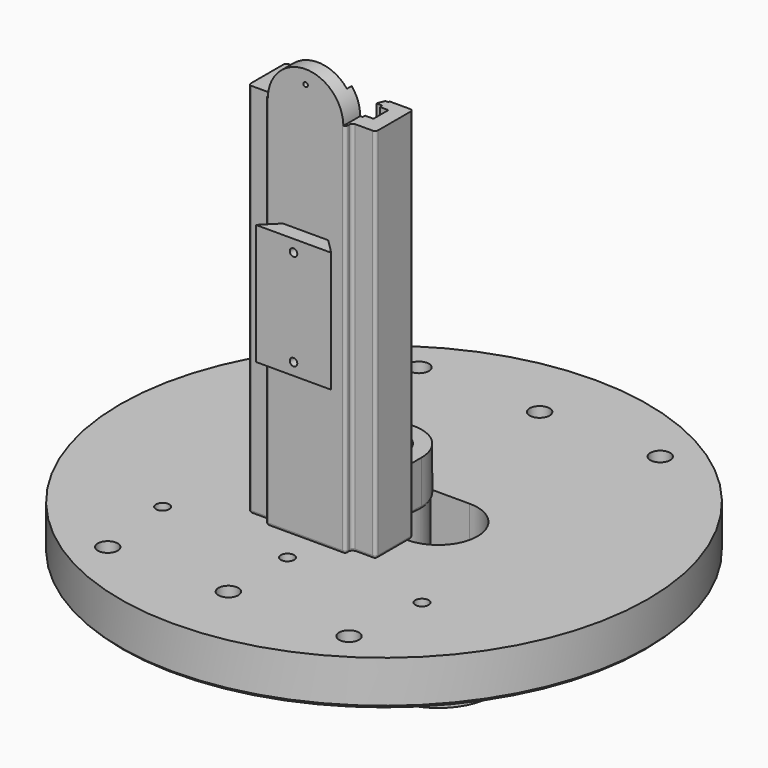
from build123d import *

# Parameters (mm, degrees)
F1_DEPTH        = 27.5
F3_DEPTH        = 10
F4_R            = 3.75
F5_DEPTH        = 7.5
F6_R            = 6
F6_R_2          = 3.75
F7_DEPTH        = 15
F8_R            = 0.5
F9_SIZE         = 0.5
F11_DEPTH       = 6.25
F13_DEPTH       = 22.5010061838
F15_D           = 0.75
F17_D           = 1.25
F19_R           = 43.75
F20_DEPTH       = 7.5
F21_R           = 20
F22_DEPTH       = 10
F24_DEPTH       = 2
F26_DEPTH       = 5
F28_D           = 3.3
F28_CSINK_D     = 6.72
F28_CSINK_ANGLE = 90
F30_D           = 2.2
F30_CSINK_D     = 3.5
F30_CSINK_ANGLE = 90
F32_DEPTH       = 15.001
F33_SIZE        = 0.5


with BuildPart() as f1:
    # F0 (on Top) → F1 (new body, symmetric)
    with BuildSketch(Plane.XY):
        with BuildLine():
            Line((-4.85, -1.4677083809), (-6.65, -1.4677083809))
            Line((-6.65, -1.4677083809), (-6.65, -0.9677083809))
            Line((-6.65, -0.9677083809), (-8.05, -0.9677083809))
            Line((-8.05, -0.9677083809), (-8.05, 0.5822916191))
            Line((-8.05, 0.5822916191), (-8.05, 2.1322916191))
            Line((-8.05, 2.1322916191), (-6.65, 2.1322916191))
            Line((-6.65, 2.1322916191), (-6.65, 2.6322916191))
            Line((-6.65, 2.6322916191), (-5.65, 2.6322916191))
            Line((-5.65, 2.6322916191), (-6.15, 3.8822916191))
            Line((-6.15, 3.8822916191), (-6.65, 3.8822916191))
            Line((-6.65, 3.8822916191), (-6.65, 4.1322916191))
            Line((-6.65, 4.1322916191), (-10.05, 4.1322916191))
            ThreePointArc((-10.05, 4.1322916191), (-10.4035533906, 3.9858450097), (-10.55, 3.6322916191))
            Line((-10.55, 3.6322916191), (-10.55, -3.1356890146))
            ThreePointArc((-10.55, -3.1356890146), (-10.4035533906, -3.4892424052), (-10.05, -3.6356890146))
            Line((-10.05, -3.6356890146), (-7.15, -3.6356890146))
            ThreePointArc((-7.15, -3.6356890146), (-6.7964466094, -3.782135624), (-6.65, -4.1356890146))
            Line((-6.65, -4.1356890146), (-6.65, -4.4677083809))
            ThreePointArc((-6.65, -4.4677083809), (-6.5035533906, -4.8212617715), (-6.15, -4.9677083809))
            Line((-6.15, -4.9677083809), (6.15, -4.9677083809))
            ThreePointArc((6.15, -4.9677083809), (6.5035533906, -4.8212617715), (6.65, -4.4677083809))
            Line((6.65, -4.4677083809), (6.65, -4.1356890146))
            ThreePointArc((6.65, -4.1356890146), (6.7964466094, -3.782135624), (7.15, -3.6356890146))
            Line((7.15, -3.6356890146), (10.05, -3.6356890146))
            ThreePointArc((10.05, -3.6356890146), (10.4035533906, -3.4892424052), (10.55, -3.1356890146))
            Line((10.55, -3.1356890146), (10.55, 3.6322916191))
            ThreePointArc((10.55, 3.6322916191), (10.4035533906, 3.9858450097), (10.05, 4.1322916191))
            Line((10.05, 4.1322916191), (6.65, 4.1322916191))
            Line((6.65, 4.1322916191), (6.65, 3.8822916191))
            Line((6.65, 3.8822916191), (6.15, 3.8822916191))
            Line((6.15, 3.8822916191), (5.65, 2.6322916191))
            Line((5.65, 2.6322916191), (6.65, 2.6322916191))
            Line((6.65, 2.6322916191), (6.65, 2.1322916191))
            Line((6.65, 2.1322916191), (8.05, 2.1322916191))
            Line((8.05, 2.1322916191), (8.05, -0.9677083809))
            Line((8.05, -0.9677083809), (6.65, -0.9677083809))
            Line((6.65, -0.9677083809), (6.65, -1.4677083809))
            Line((6.65, -1.4677083809), (4.85, -1.4677083809))
            Line((4.85, -1.4677083809), (4.85, -2.4677083809))
            Line((4.85, -2.4677083809), (0, -2.4677083809))
            Line((0, -2.4677083809), (-4.85, -2.4677083809))
            Line((-4.85, -2.4677083809), (-4.85, -1.4677083809))
        make_face()
    extrude(amount=F1_DEPTH, both=True)

    # F2 (on Top) → F3 (join, symmetric)
    with BuildSketch(Plane.XY):
        Polygon((3.75, -4.9677083809), (-3.75, -4.9677083809), (-6.25, -7.4677083809), (6.25, -7.4677083809), align=None)
    extrude(amount=F3_DEPTH, both=True)

    # F4 (on face) → F5 (join)
    with BuildSketch(Plane(origin=(0, 0, -27.5), x_dir=(1, 0, 0), z_dir=(0, 0, -1))):
        with BuildLine():
            Line((6.15, 4.9677083809), (-6.15, 4.9677083809))
            ThreePointArc((-6.15, 4.9677083809), (-6.5035533906, 4.8212617715), (-6.65, 4.4677083809))
            Line((-6.65, 4.4677083809), (-6.65, 4.1356890146))
            ThreePointArc((-6.65, 4.1356890146), (-6.7964466094, 3.782135624), (-7.15, 3.6356890146))
            Line((-7.15, 3.6356890146), (-10.05, 3.6356890146))
            ThreePointArc((-10.05, 3.6356890146), (-10.4035533906, 3.4892424052), (-10.55, 3.1356890146))
            Line((-10.55, 3.1356890146), (-10.55, -3.6322916191))
            ThreePointArc((-10.55, -3.6322916191), (-10.4035533906, -3.9858450097), (-10.05, -4.1322916191))
            Line((-10.05, -4.1322916191), (-9.75, -4.1322916191))
            ThreePointArc((-9.75, -4.1322916191), (-7.2751262658, -5.1574178849), (-6.25, -7.6322916191))
            Line((-6.25, -7.6322916191), (-6.25, -11.2822916191))
            ThreePointArc((-6.25, -11.2822916191), (0, -5.0322916191), (6.25, -11.2822916191))
            Line((6.25, -11.2822916191), (6.25, -7.6322916191))
            ThreePointArc((6.25, -7.6322916191), (7.2751262658, -5.1574178849), (9.75, -4.1322916191))
            Line((9.75, -4.1322916191), (10.05, -4.1322916191))
            ThreePointArc((10.05, -4.1322916191), (10.4035533906, -3.9858450097), (10.55, -3.6322916191))
            Line((10.55, -3.6322916191), (10.55, 3.1356890146))
            ThreePointArc((10.55, 3.1356890146), (10.4035533906, 3.4892424052), (10.05, 3.6356890146))
            Line((10.05, 3.6356890146), (7.15, 3.6356890146))
            ThreePointArc((7.15, 3.6356890146), (6.7964466094, 3.782135624), (6.65, 4.1356890146))
            Line((6.65, 4.1356890146), (6.65, 4.4677083809))
            ThreePointArc((6.65, 4.4677083809), (6.5035533906, 4.8212617715), (6.15, 4.9677083809))
        make_face()
        with BuildLine():
            ThreePointArc((6.25, -11.2822916191), (0, -5.0322916191), (-6.25, -11.2822916191))
            ThreePointArc((-6.25, -11.2822916191), (0, -17.5322916191), (6.25, -11.2822916191))
        make_face()
        with Locations((0, -11.2822916191)):
            Circle(F4_R, mode=Mode.SUBTRACT)
    extrude(amount=F5_DEPTH)

    # F6 (on face) → F7 (join)
    with BuildSketch(Plane(origin=(0, 0, -35), x_dir=(1, 0, 0), z_dir=(0, 0, -1))):
        with Locations((0, -11.2822916191)):
            Circle(F6_R)
        with Locations((0, -11.2822916191)):
            Circle(F6_R_2, mode=Mode.SUBTRACT)
    extrude(amount=F7_DEPTH)

    # F8
    f8_edges = [f1.edges().sort_by_distance(p)[0] for p in [
        (10.55, 0.248301, -35),
    ]]
    fillet(f8_edges, radius=F8_R)

    # F9
    f9_edges = [f1.edges().sort_by_distance(p)[0] for p in [
        (-6, 11.282292, -50),
    ]]
    chamfer(f9_edges, length=F9_SIZE)

    # F10 (on face) → F11 (join)
    with BuildSketch(Plane.XY.offset(27.5)):
        with BuildLine():
            ThreePointArc((6.15, -4.9677083809), (6.200254481, -4.9651764574), (6.25, -4.9576063295))
            Line((6.25, -4.9576063295), (6.25, -1.4677083809))
            Line((6.25, -1.4677083809), (4.85, -1.4677083809))
            Line((4.85, -1.4677083809), (4.85, -2.4677083809))
            Line((4.85, -2.4677083809), (-4.85, -2.4677083809))
            Line((-4.85, -2.4677083809), (-4.85, -1.4677083809))
            Line((-4.85, -1.4677083809), (-6.25, -1.4677083809))
            Line((-6.25, -1.4677083809), (-6.25, -4.9576063295))
            ThreePointArc((-6.25, -4.9576063295), (-6.200254481, -4.9651764574), (-6.15, -4.9677083809))
            Line((-6.15, -4.9677083809), (6.15, -4.9677083809))
        make_face()
    extrude(amount=F11_DEPTH)

    # F12 (on face) → F13 (cut, through all)
    with BuildSketch(Plane.XZ.offset(4.9677083809)):
        with BuildLine():
            ThreePointArc((-6.25, 27.5), (0, 33.75), (6.25, 27.5))
            Line((6.25, 27.5), (7.15, 27.5))
            Line((7.15, 27.5), (7.15, 34.6532762051))
            Line((7.15, 34.6532762051), (-7.1755368263, 34.6532762051))
            Line((-7.1755368263, 34.6532762051), (-7.1755368263, 27.5))
            Line((-7.1755368263, 27.5), (-6.25, 27.5))
        make_face()
    extrude(amount=-F13_DEPTH, mode=Mode.SUBTRACT)

    # F15 (through all)
    with Locations(Plane.XZ.offset(4.9677083809)):
        with Locations((0, 31.5)):
            Hole(F15_D / 2)

    # F17 (through all)
    with Locations(Plane.XZ.offset(7.4677083809)):
        with Locations((0, 8), (0, -8)):
            Hole(F17_D / 2)


with BuildPart() as f20:
    # F19 (on offset) → F20 (new body)
    with BuildSketch(Plane.XY.offset(-36)):
        with Locations((0, 11.2822916191)):
            Circle(F19_R)
        with BuildLine():
            Line((-9, 17.7822916191), (-3.1e-09, 17.7822916191))
            Line((-3.1e-09, 17.7822916191), (9, 17.7822916191))
            ThreePointArc((9, 17.7822916191), (15.5, 11.2822916191), (9, 4.7822916191))
            Line((9, 4.7822916191), (-2.15e-08, 4.7822916191))
            Line((-2.15e-08, 4.7822916191), (-9, 4.7822916191))
            ThreePointArc((-9, 4.7822916191), (-15.5, 11.2822916191), (-9, 17.7822916191))
        make_face(mode=Mode.SUBTRACT)
    extrude(amount=-F20_DEPTH)

    # F21 (on face) → F22 (join)
    with BuildSketch(Plane(origin=(0, 0, -43.5), x_dir=(1, 0, 0), z_dir=(0, 0, -1))):
        with Locations((0, -11.2822916191)):
            Circle(F21_R)
        with BuildLine():
            Line((-9, -4.7822916191), (9, -4.7822916191))
            ThreePointArc((9, -4.7822916191), (15.5, -11.2822916191), (9, -17.7822916191))
            Line((9, -17.7822916191), (-9, -17.7822916191))
            ThreePointArc((-9, -17.7822916191), (-15.5, -11.2822916191), (-9, -4.7822916191))
        make_face(mode=Mode.SUBTRACT)
    extrude(amount=F22_DEPTH)

    # F23 (on face) → F24 (join)
    with BuildSketch(Plane(origin=(0, 0, -53.5), x_dir=(1, 0, 0), z_dir=(0, 0, -1))):
        with BuildLine():
            ThreePointArc((9, -17.7822916191), (15.5, -11.2822916191), (9, -4.7822916191))
            Line((9, -4.7822916191), (-9, -4.7822916191))
            ThreePointArc((-9, -4.7822916191), (-15.5, -11.2822916191), (-9, -17.7822916191))
            Line((-9, -17.7822916191), (9, -17.7822916191))
        make_face()
        with BuildLine():
            Line((-9, -7.2822916191), (9, -7.2822916191))
            ThreePointArc((9, -7.2822916191), (13, -11.2822916191), (9, -15.2822916191))
            Line((9, -15.2822916191), (-9, -15.2822916191))
            ThreePointArc((-9, -15.2822916191), (-13, -11.2822916191), (-9, -7.2822916191))
        make_face(mode=Mode.SUBTRACT)
    extrude(amount=-F24_DEPTH)

    # F25 (on face) → F26 (join)
    with BuildSketch(Plane(origin=(0, 0, -53.5), x_dir=(1, 0, 0), z_dir=(0, 0, -1))):
        with BuildLine():
            ThreePointArc((9, -20.2822908442), (17.9999992251, -11.2822916191), (9, -2.2822923939))
            Line((9, -2.2822923939), (-9, -2.2822923939))
            ThreePointArc((-9, -2.2822923939), (-17.9999992251, -11.2822916191), (-9, -20.2822908442))
            Line((-9, -20.2822908442), (9, -20.2822908442))
        make_face()
        with BuildLine():
            Line((-9, -7.2822916191), (9, -7.2822916191))
            ThreePointArc((9, -7.2822916191), (13, -11.2822916191), (9, -15.2822916191))
            Line((9, -15.2822916191), (-9, -15.2822916191))
            ThreePointArc((-9, -15.2822916191), (-13, -11.2822916191), (-9, -7.2822916191))
        make_face(mode=Mode.SUBTRACT)
    extrude(amount=F26_DEPTH)

    # F28 (through all)
    with Locations(Plane(origin=(0, 0, -43.5), x_dir=(1, 0, 0), z_dir=(0, 0, -1))):
        with Locations((20, -43.5322916191), (0, -43.5322916191), (-20, -43.5322916191), (20, 20.9677083809), (0, 20.9677083809), (-20, 20.9677083809)):
            CounterSinkHole(F28_D / 2, F28_CSINK_D / 2, counter_sink_angle=F28_CSINK_ANGLE)

    # F30 (through all)
    with Locations(Plane(origin=(0, 0, -43.5), x_dir=(1, 0, 0), z_dir=(0, 0, -1))):
        with Locations((-21.5, 7.7177083809), (0, 8.7177083809), (21.5, 7.7177083809)):
            CounterSinkHole(F30_D / 2, F30_CSINK_D / 2, counter_sink_angle=F30_CSINK_ANGLE)

    # F31 (on face) → F32 (cut, through all)
    with BuildSketch(Plane(origin=(0, 0, -43.5), x_dir=(1, 0, 0), z_dir=(0, 0, -1))):
        with BuildLine():
            ThreePointArc((-1.7483243931, 8.6411458809), (0, 6.9677083809), (1.7483243931, 8.6411458809))
            ThreePointArc((1.7483243931, 8.6411458809), (1.7495810481, 8.6794179641), (1.75, 8.7177083809))
            ThreePointArc((1.75, 8.7177083809), (-0.0382904168, 10.467289429), (-1.7483243931, 8.6411458809))
        make_face()
    extrude(amount=F32_DEPTH, mode=Mode.SUBTRACT)

    # F33
    f33_edges = [f20.edges().sort_by_distance(p)[0] for p in [
        (-43.75, 11.282292, -43.5),
    ]]
    chamfer(f33_edges, length=F33_SIZE)


solid = Compound([f1.part, f20.part])
